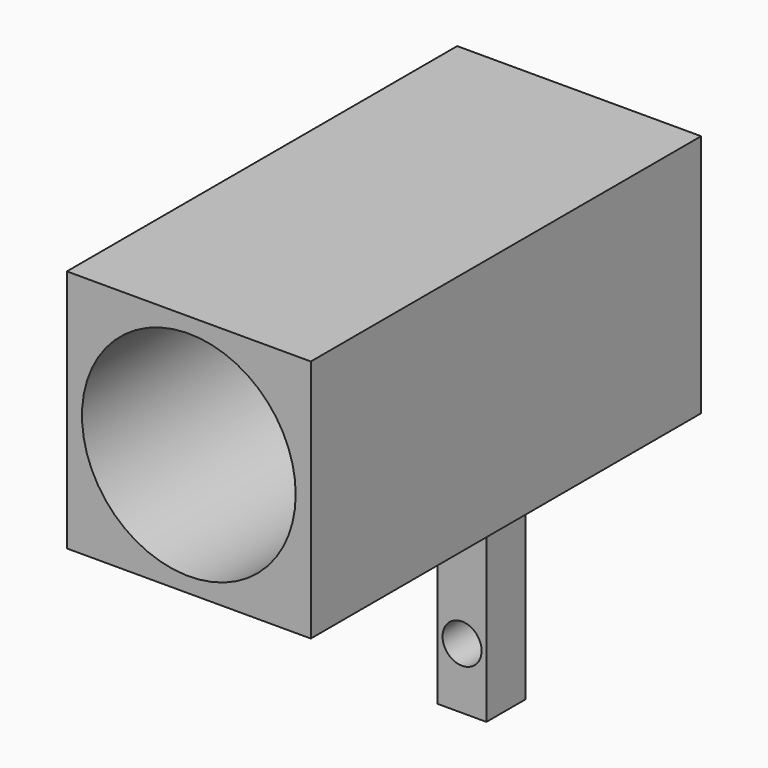
from build123d import *

# Parameters (mm, degrees)
F0_W     = 12.7
F0_H     = 12.7
F1_DEPTH = 25.4
F2_R     = 5.5626
F3_DEPTH = 19.05
F4_W     = 2.54
F4_H     = 2.54
F5_DEPTH = 12.7
F6_R     = 1.016
F7_DEPTH = 25.4


with BuildPart() as f1:
    # F0 (on Front) → F1 (new body)
    with BuildSketch(Plane.XZ):
        Rectangle(F0_W, F0_H)
    extrude(amount=-F1_DEPTH)

    # F2 (on face) → F3 (cut)
    with BuildSketch(Plane.XZ):
        Circle(F2_R)
    extrude(amount=-F3_DEPTH, mode=Mode.SUBTRACT)

    # F4 (on face) → F5 (join)
    with BuildSketch(Plane(origin=(0, 0, -6.35), x_dir=(1, 0, 0), z_dir=(0, 0, -1))):
        with Locations((0, -19.05)):
            Rectangle(F4_W, F4_H)
    extrude(amount=F5_DEPTH)

    # F6 (on face) → F7 (cut)
    with BuildSketch(Plane(origin=(0, 20.32, 0), x_dir=(-1, 0, 0), z_dir=(0, 1, 0))):
        with Locations((0, -15.875)):
            Circle(F6_R)
    extrude(amount=-F7_DEPTH, mode=Mode.SUBTRACT)


solid = f1.part
